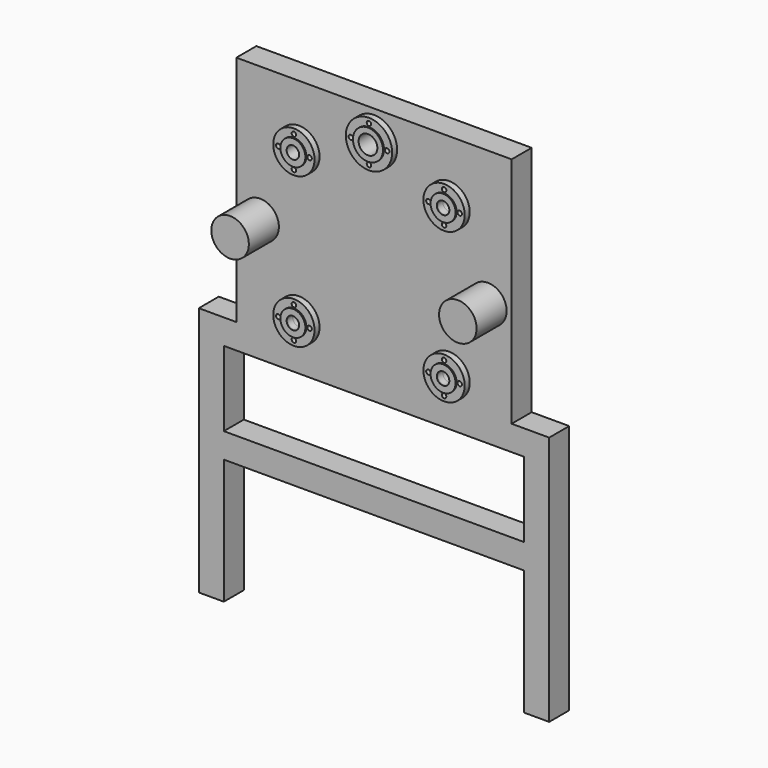
from build123d import *

# Parameters (mm, degrees)
F0_W      = 800
F0_H      = 300
F0_H_2    = 200
F1_DEPTH  = 100
F2_R      = 25
F2_R_2    = 75
F3_DEPTH  = 100
F4_R      = 75
F5_DEPTH  = 150
F6_R      = 82.5
F6_R_2    = 9
F6_R_3    = 25
F7_DEPTH  = 25
F8_R      = 50
F8_R_2    = 25
F9_DEPTH  = 5
F10_R     = 75
F11_DEPTH = 25
F12_R     = 37.5
F13_DEPTH = 100
F14_R     = 92.5
F14_R_2   = 9
F14_R_3   = 37.5
F15_DEPTH = 25
F16_R     = 60
F16_R_2   = 37.5
F17_DEPTH = 5
F18_W     = 1200
F18_H     = 1000
F19_DEPTH = 100
F20_W     = 1400
F20_H     = 100
F21_DEPTH = 100
F23_DEPTH = 100


with BuildPart() as f1:
    # F0 (on Front) → F1 (new body)
    with BuildSketch(Plane.XZ):
        Polygon((400, -965), (550, -965), (550, 965), (-550, 965), (-550, -965), (-400, -965), (-400, -765), (400, -765), align=None)
        with Locations((0, -465)):
            Rectangle(F0_W, F0_H, mode=Mode.SUBTRACT)
        with Locations((0, -65)):
            Rectangle(F0_W, F0_H_2, mode=Mode.SUBTRACT)
    extrude(amount=F1_DEPTH)

    # F2 (on face) → F3 (cut)
    with BuildSketch(Plane.XZ.offset(100)):
        with Locations((-300, 125)):
            Circle(F2_R)
        with Locations((0, 425)):
            Circle(F2_R_2)
        with Locations((-300, 725)):
            Circle(F2_R)
        with Locations((300, 125)):
            Circle(F2_R)
        with Locations((300, 725)):
            Circle(F2_R)
    extrude(amount=-F3_DEPTH, mode=Mode.SUBTRACT)

    # F4 (on face) → F5 (join)
    with BuildSketch(Plane.XZ.offset(100)):
        with Locations((-455, 425)):
            Circle(F4_R)
        with Locations((455, 425)):
            Circle(F4_R)
    extrude(amount=F5_DEPTH)

    # F6 (on face) → F7 (join)
    with BuildSketch(Plane.XZ.offset(100)):
        with Locations((-300, 725)):
            Circle(F6_R)
        with Locations((-300, 662.5)):
            Circle(F6_R_2, mode=Mode.SUBTRACT)
        with Locations((-362.5, 725)):
            Circle(F6_R_2, mode=Mode.SUBTRACT)
        with Locations((-300, 725)):
            Circle(F6_R_3, mode=Mode.SUBTRACT)
        with Locations((-300, 787.5)):
            Circle(F6_R_2, mode=Mode.SUBTRACT)
        with Locations((-237.5, 725)):
            Circle(F6_R_2, mode=Mode.SUBTRACT)
        with Locations((-300, 125)):
            Circle(F6_R)
        with Locations((-300, 62.5)):
            Circle(F6_R_2, mode=Mode.SUBTRACT)
        with Locations((-362.5, 125)):
            Circle(F6_R_2, mode=Mode.SUBTRACT)
        with Locations((-300, 125)):
            Circle(F6_R_3, mode=Mode.SUBTRACT)
        with Locations((-237.5, 125)):
            Circle(F6_R_2, mode=Mode.SUBTRACT)
        with Locations((-300, 187.5)):
            Circle(F6_R_2, mode=Mode.SUBTRACT)
        with Locations((300, 725)):
            Circle(F6_R)
        with Locations((300, 662.5)):
            Circle(F6_R_2, mode=Mode.SUBTRACT)
        with Locations((237.5, 725)):
            Circle(F6_R_2, mode=Mode.SUBTRACT)
        with Locations((300, 725)):
            Circle(F6_R_3, mode=Mode.SUBTRACT)
        with Locations((362.5, 725)):
            Circle(F6_R_2, mode=Mode.SUBTRACT)
        with Locations((300, 787.5)):
            Circle(F6_R_2, mode=Mode.SUBTRACT)
        with Locations((300, 125)):
            Circle(F6_R)
        with Locations((237.5, 125)):
            Circle(F6_R_2, mode=Mode.SUBTRACT)
        with Locations((300, 62.5)):
            Circle(F6_R_2, mode=Mode.SUBTRACT)
        with Locations((300, 125)):
            Circle(F6_R_3, mode=Mode.SUBTRACT)
        with Locations((362.5, 125)):
            Circle(F6_R_2, mode=Mode.SUBTRACT)
        with Locations((300, 187.5)):
            Circle(F6_R_2, mode=Mode.SUBTRACT)
    extrude(amount=F7_DEPTH)

    # F8 (on face) → F9 (join)
    with BuildSketch(Plane.XZ.offset(125)):
        with Locations((-300, 725)):
            Circle(F8_R)
        with Locations((-300, 725)):
            Circle(F8_R_2, mode=Mode.SUBTRACT)
        with Locations((-300, 125)):
            Circle(F8_R)
        with Locations((-300, 125)):
            Circle(F8_R_2, mode=Mode.SUBTRACT)
        with Locations((300, 725)):
            Circle(F8_R)
        with Locations((300, 725)):
            Circle(F8_R_2, mode=Mode.SUBTRACT)
        with Locations((300, 125)):
            Circle(F8_R)
        with Locations((300, 125)):
            Circle(F8_R_2, mode=Mode.SUBTRACT)
    extrude(amount=F9_DEPTH)

    # F10 (on face) → F11 (join)
    with BuildSketch(Plane.XZ.offset(100)):
        with Locations((0, 425)):
            Circle(F10_R)
    extrude(amount=-F11_DEPTH)

    # F12 (on face) → F13 (cut)
    with BuildSketch(Plane.XZ.offset(100)):
        with Locations((0, 850)):
            Circle(F12_R)
    extrude(amount=-F13_DEPTH, mode=Mode.SUBTRACT)

    # F14 (on face) → F15 (join)
    with BuildSketch(Plane.XZ.offset(100)):
        with Locations((0, 850)):
            Circle(F14_R)
        with Locations((-72.5, 850)):
            Circle(F14_R_2, mode=Mode.SUBTRACT)
        with Locations((0, 777.5)):
            Circle(F14_R_2, mode=Mode.SUBTRACT)
        with Locations((0, 850)):
            Circle(F14_R_3, mode=Mode.SUBTRACT)
        with Locations((0, 922.5)):
            Circle(F14_R_2, mode=Mode.SUBTRACT)
        with Locations((72.5, 850)):
            Circle(F14_R_2, mode=Mode.SUBTRACT)
    extrude(amount=F15_DEPTH)

    # F16 (on face) → F17 (join)
    with BuildSketch(Plane.XZ.offset(125)):
        with Locations((0, 850)):
            Circle(F16_R)
        with Locations((0, 850)):
            Circle(F16_R_2, mode=Mode.SUBTRACT)
    extrude(amount=F17_DEPTH)

    # F18 (on face) → F19 (cut)
    with BuildSketch(Plane.XZ.offset(100)):
        with Locations((31.1626179577, -465)):
            Rectangle(F18_W, F18_H)
    extrude(amount=-F19_DEPTH, mode=Mode.SUBTRACT)

    # F20 (on face) → F21 (join)
    with BuildSketch(Plane(origin=(0, 0, 35), x_dir=(1, 0, 0), z_dir=(0, 0, -1))):
        with Locations((0, 50)):
            Rectangle(F20_W, F20_H)
    extrude(amount=F21_DEPTH)

    # F22 (on face) → F23 (join)
    with BuildSketch(Plane.XZ.offset(100)):
        Polygon((-600, -65), (-700, -65), (-700, -965), (-600, -965), (-600, -465), (600, -465), (600, -965), (700, -965), (700, -65), (600, -65), (600, -365), (-600, -365), align=None)
    extrude(amount=-F23_DEPTH)


solid = f1.part
